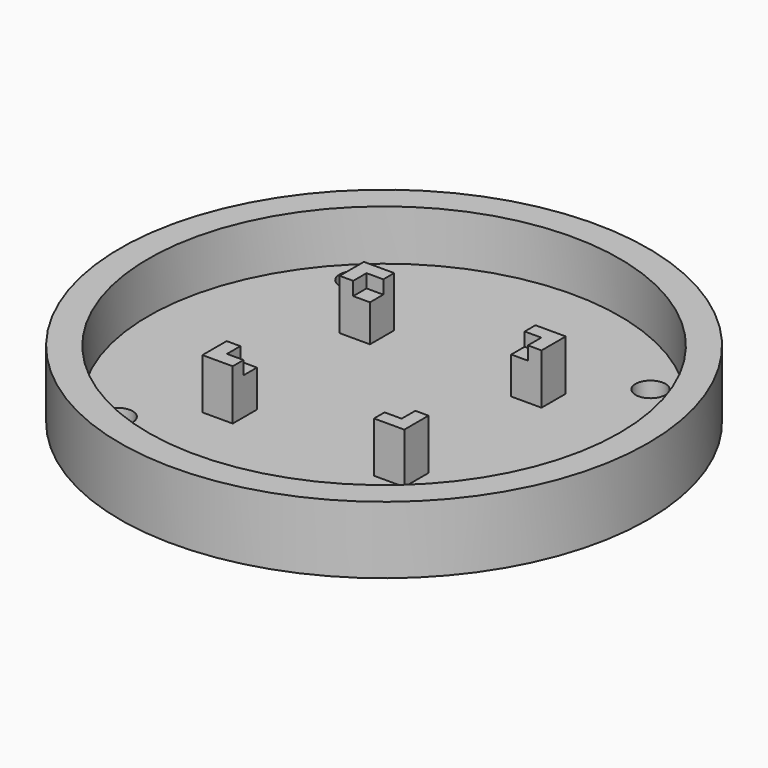
from build123d import *

# Parameters (mm, degrees)
SKETCH006_R     = 39.229987
PAD001_DEPTH    = 10
SKETCH007_R     = 35.030743
POCKET003_DEPTH = 7.5
SKETCH008_R     = 2.223377
SKETCH008_R_2   = 2.22785
SKETCH008_R_3   = 2.236068
POCKET004_DEPTH = 5
SKETCH011_W     = 4.5
SKETCH011_H     = 4.5
PAD002_DEPTH    = 7.5
SKETCH012_W     = 2.831394
SKETCH012_H     = 3.088426
POCKET005_DEPTH = 2
SKETCH013_W     = 2.956726
SKETCH013_H     = 2.855928
POCKET006_DEPTH = 2
SKETCH014_W     = 2.736649
SKETCH014_H     = 2.756396
POCKET007_DEPTH = 2
SKETCH015_W     = 2.695849
SKETCH015_H     = 2.640832
POCKET008_DEPTH = 2


with BuildPart() as part:
    # Sketch006 → Pad001 (new body)
    with BuildSketch(Plane.XY.offset(-10)):
        Circle(SKETCH006_R)
    extrude(amount=PAD001_DEPTH)

    # Sketch007 → Pocket003 (cut)
    with BuildSketch(Plane.XY):
        Circle(SKETCH007_R)
    extrude(amount=-POCKET003_DEPTH, mode=Mode.SUBTRACT)

    # Sketch008 → Pocket004 (cut)
    with BuildSketch(Plane.XY.offset(-7.5)):
        with Locations((22, -22)):
            Circle(SKETCH008_R)
        with Locations((22, 22)):
            Circle(SKETCH008_R_2)
        with Locations((-22, 22)):
            Circle(SKETCH008_R_3)
        with Locations((-22, -22)):
            Circle(SKETCH008_R_3)
    extrude(amount=-POCKET004_DEPTH, mode=Mode.SUBTRACT)

    # Sketch011 → Pad002 (new body)
    with BuildSketch(Plane.XY.offset(-7.5)):
        with Locations((12.75, 12.75)):
            Rectangle(SKETCH011_W, SKETCH011_H)
        with Locations((12.75, -12.75)):
            Rectangle(SKETCH011_W, SKETCH011_H)
        with Locations((-12.75, -12.75)):
            Rectangle(SKETCH011_W, SKETCH011_H)
        with Locations((-12.75, 12.75)):
            Rectangle(SKETCH011_W, SKETCH011_H)
    extrude(amount=PAD002_DEPTH)

    # Sketch012 → Pocket005 (cut)
    with BuildSketch(Plane.XY):
        with Locations((-11.575037, 11.434175)):
            Rectangle(SKETCH012_W, SKETCH012_H)
    extrude(amount=-POCKET005_DEPTH, mode=Mode.SUBTRACT)

    # Sketch013 → Pocket006 (cut)
    with BuildSketch(Plane.XY):
        with Locations((11.494347, 11.570308)):
            Rectangle(SKETCH013_W, SKETCH013_H)
    extrude(amount=-POCKET006_DEPTH, mode=Mode.SUBTRACT)

    # Sketch014 → Pocket007 (cut)
    with BuildSketch(Plane.XY):
        with Locations((11.6727, -11.659363)):
            Rectangle(SKETCH014_W, SKETCH014_H)
    extrude(amount=-POCKET007_DEPTH, mode=Mode.SUBTRACT)

    # Sketch015 → Pocket008 (cut)
    with BuildSketch(Plane.XY):
        with Locations((-11.611325, -11.666073)):
            Rectangle(SKETCH015_W, SKETCH015_H)
    extrude(amount=-POCKET008_DEPTH, mode=Mode.SUBTRACT)


solid = part.part
